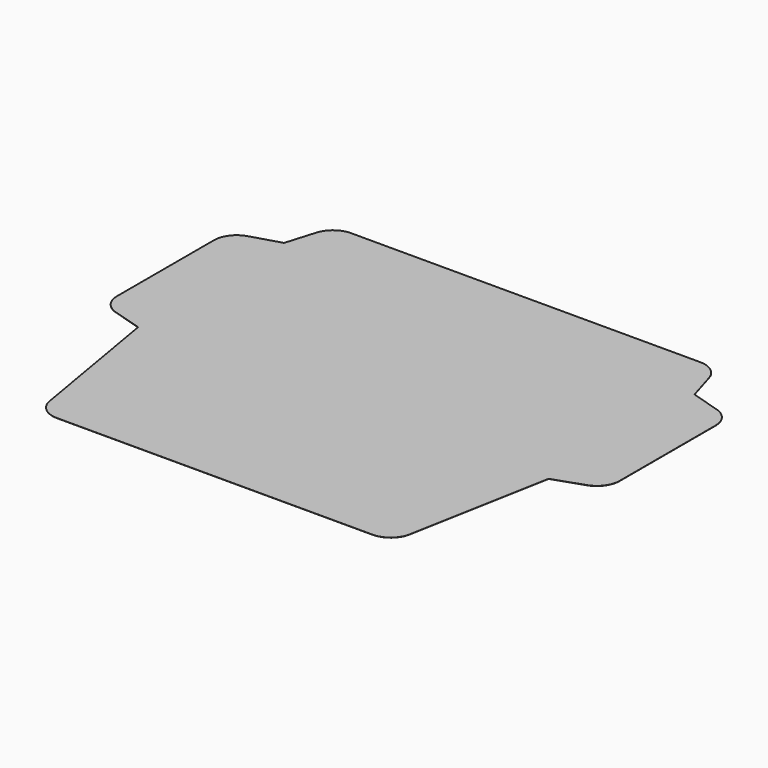
from build123d import *

# Parameters (mm, degrees)
F1_DEPTH = 0.1016


with BuildPart() as f1:
    # F0 (on Top) → F1 (new body)
    with BuildSketch(Plane.XY):
        with BuildLine():
            Line((30.304795, 206.849318), (25.4, 190.5))
            Line((25.4, 190.5), (9.050682, 185.595205))
            ThreePointArc((9.050682, 185.595205), (2.51088, 181.011828), (0, 173.430811))
            Line((0, 173.430811), (0, 105.969189))
            ThreePointArc((0, 105.969189), (2.51088, 98.388172), (9.050682, 93.804795))
            Line((9.050682, 93.804795), (25.4, 88.9))
            Line((25.4, 88.9), (38.830716, 10.55416))
            ThreePointArc((38.830716, 10.55416), (43.16161, 2.99067), (51.348118, 0))
            Line((51.348118, 0), (227.102004, 0))
            ThreePointArc((227.102004, 0), (235.231364, 2.942772), (239.593346, 10.407322))
            Line((239.593346, 10.407322), (254, 88.9))
            Line((254, 88.9), (270.829179, 94.686074))
            ThreePointArc((270.829179, 94.686074), (277.037567, 99.318754), (279.4, 106.696065))
            Line((279.4, 106.696065), (279.4, 173.430811))
            ThreePointArc((279.4, 173.430811), (276.88912, 181.011828), (270.349318, 185.595205))
            Line((270.349318, 185.595205), (254, 190.5))
            Line((254, 190.5), (249.095205, 206.849318))
            ThreePointArc((249.095205, 206.849318), (244.511828, 213.38912), (236.930811, 215.9))
            Line((236.930811, 215.9), (42.469189, 215.9))
            ThreePointArc((42.469189, 215.9), (34.888172, 213.38912), (30.304795, 206.849318))
        make_face()
    extrude(amount=F1_DEPTH)


solid = f1.part
